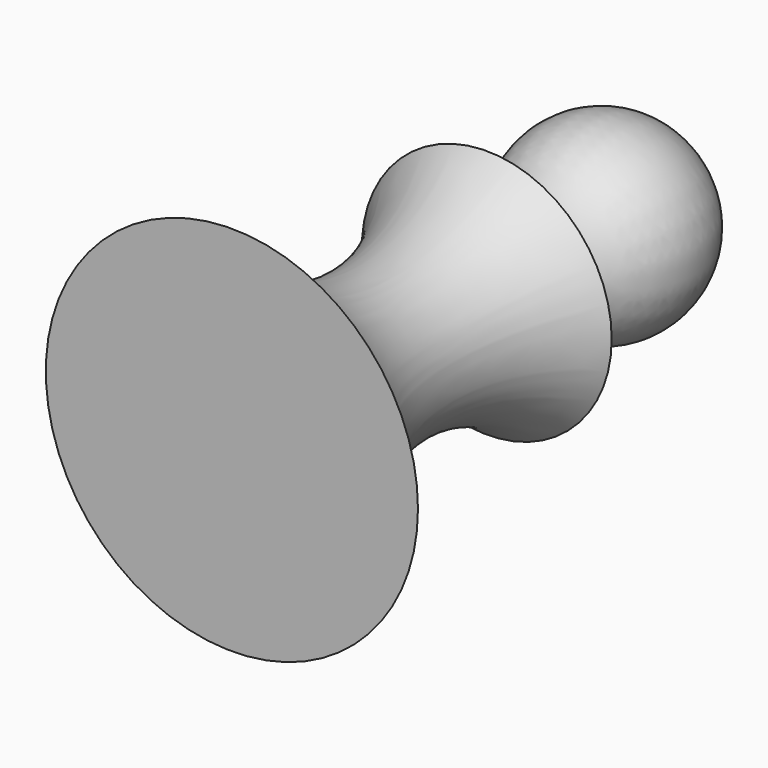
from build123d import *


with BuildPart() as f1:
    # F0 (on Top) → F1 (revolve)
    with BuildSketch(Plane.XY):
        with BuildLine():
            ThreePointArc((6.070041, 24.217671), (16.933719, 43.077659), (0, 56.751277))
            Line((0, 56.751277), (0, 23.25872))
            ThreePointArc((0, 23.25872), (3.079367, 23.457484), (6.070041, 24.217671))
        make_face()
        with BuildLine():
            ThreePointArc((6.070041, 24.217671), (3.079367, 23.457484), (0, 23.25872))
            Line((0, 23.25872), (0, -44.424161))
            Line((0, -44.424161), (33.957731, -44.424161))
            ThreePointArc((33.957731, -44.424161), (14.378903, -18.03813), (22.793544, 13.722646))
            ThreePointArc((22.793544, 13.722646), (10.783308, 13.15641), (6.070041, 24.217671))
        make_face()
    revolve(axis=Axis((0, 6.163558, 0), (0, -1, 0)))


solid = f1.part
